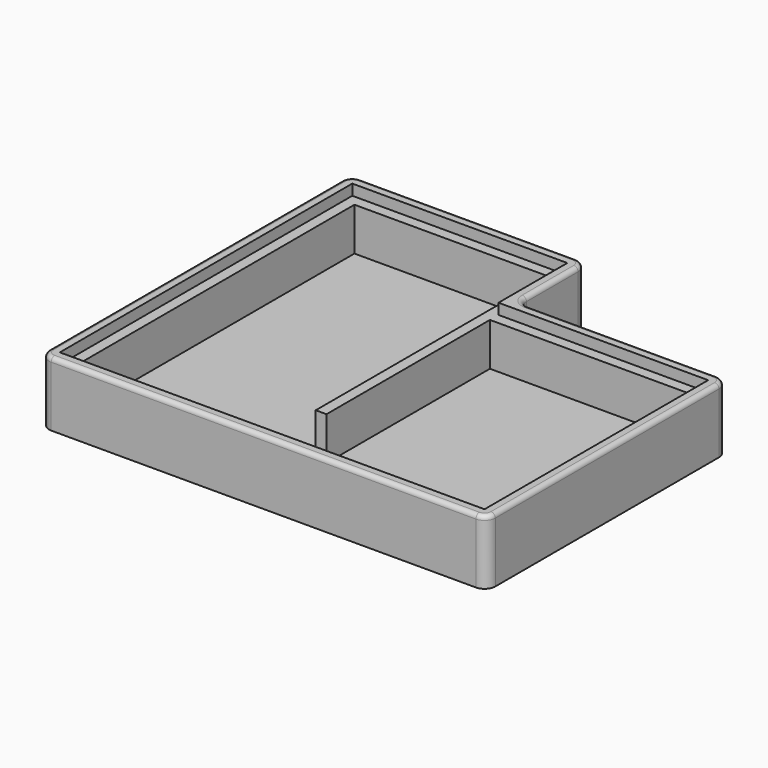
from build123d import *

# Parameters (mm, degrees)
SKETCH_W        = 41.5
SKETCH_H        = 36
PAD_DEPTH       = 6
POCKET_DEPTH    = 5
SKETCH002_W     = 19.5
SKETCH002_H     = 8
POCKET001_DEPTH = 6.001
POCKET002_DEPTH = 1
SKETCH005_W     = 1
SKETCH005_H     = 19
PAD001_DEPTH    = 4
FILLET_R        = 1
FILLET001_R     = 0.4


with BuildPart() as part:
    # Sketch → Pad (new body)
    with BuildSketch(Plane.XY):
        with Locations((-0.25, 18)):
            Rectangle(SKETCH_W, SKETCH_H)
    extrude(amount=PAD_DEPTH)

    # Sketch001 (on Face6 of Pad) → Pocket (cut)
    with BuildSketch(Plane.XY.offset(6)):
        Polygon((-19, 2), (18.5, 2), (18.5, 26), (-1, 26), (-1, 34), (-19, 34), align=None)
    extrude(amount=-POCKET_DEPTH, mode=Mode.SUBTRACT)

    # Sketch002 (on Face5 of Pocket) → Pocket001 (cut, through all)
    with BuildSketch(Plane.XY.offset(6)):
        with Locations((10.75, 32)):
            Rectangle(SKETCH002_W, SKETCH002_H)
    extrude(amount=-POCKET001_DEPTH, mode=Mode.SUBTRACT)

    # Sketch004 (on Face5 of Pocket001) → Pocket002 (cut)
    with BuildSketch(Plane.XY.offset(6)):
        Polygon((-20, 35), (0, 35), (0, 27), (19.5, 27), (19.5, 1), (-20, 1), align=None)
    extrude(amount=-POCKET002_DEPTH, mode=Mode.SUBTRACT)

    # Sketch005 (on Face22 of Pocket002) → Pad001 (join)
    with BuildSketch(Plane.XY.offset(1)):
        with Locations((-0.5, 16.5)):
            Rectangle(SKETCH005_W, SKETCH005_H)
    extrude(amount=PAD001_DEPTH)

    # Fillet
    fillet_edges = [part.edges().sort_by_distance(p)[0] for p in [
        (-21, 0, 3),
        (20.5, 0, 3),
        (20.5, 28, 3),
        (1, 28, 3),
        (1, 36, 3),
        (-21, 36, 3),
    ]]
    fillet(fillet_edges, radius=FILLET_R)

    # Fillet001
    fillet001_edges = [part.edges().sort_by_distance(p)[0] for p in [
        (20.5, 14, 6),
        (20.207107, 0.292893, 6),
        (-0.25, 0, 6),
        (20.207107, 27.707107, 6),
        (10.75, 28, 6),
        (1.292893, 28.292893, 6),
        (1, 32, 6),
        (0.707107, 35.707107, 6),
        (-10, 36, 6),
        (-21, 18, 6),
        (-20.707107, 0.292893, 6),
    ]]
    fillet(fillet001_edges, radius=FILLET001_R)


solid = part.part
